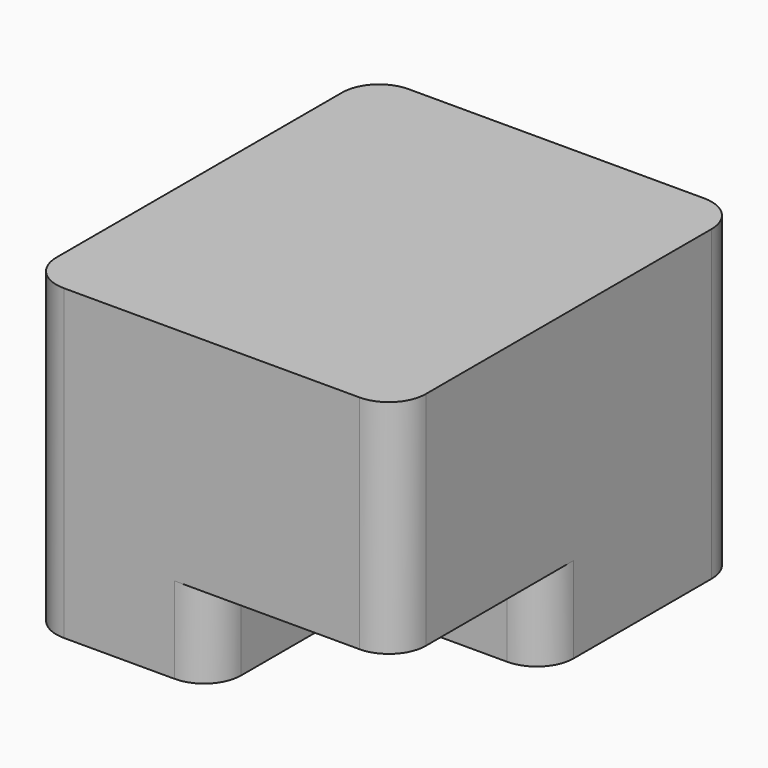
from build123d import *

# Parameters (mm, degrees)
F0_W     = 30
F0_H     = 25
F1_DEPTH = 35
F2_W     = 15
F2_H     = 7
F3_DEPTH = 15
F4_R     = 1.865436
F5_DEPTH = 20.001
F6_R     = 3


with BuildPart() as f1:
    # F0 (on Front) → F1 (new body)
    with BuildSketch(Plane.XZ):
        with Locations((15, -12.5)):
            Rectangle(F0_W, F0_H)
    extrude(amount=F1_DEPTH)

    # F2 (on face) → F3 (cut)
    with BuildSketch(Plane.XZ.offset(35)):
        with Locations((22.5, -21.5)):
            Rectangle(F2_W, F2_H)
    extrude(amount=-F3_DEPTH, mode=Mode.SUBTRACT)

    # F4 (on face) → F5 (cut, through all)
    with BuildSketch(Plane.XZ.offset(20)):
        with Locations((22.5, -21.223269)):
            Circle(F4_R)
    extrude(amount=-F5_DEPTH, mode=Mode.SUBTRACT)

    # F6
    f6_edges = [f1.edges().sort_by_distance(p)[0] for p in [
        (0, -35, -12.5),
        (15, -35, -21.5),
        (30, 0, -12.5),
        (30, -35, -9),
        (30, -20, -21.5),
        (0, 0, -12.5),
    ]]
    fillet(f6_edges, radius=F6_R)


solid = f1.part
